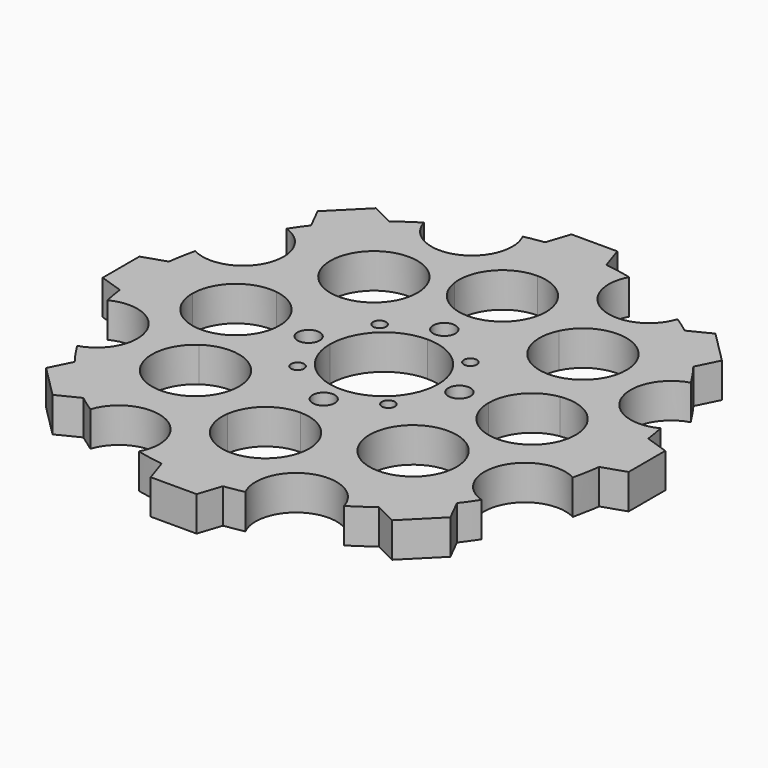
from build123d import *

# Parameters (mm, degrees)
F1_DEPTH = 7.1997824
F3_DEPTH = 7.1882
F4_R     = 2.2899148763
F4_R_2   = 1.3410215673
F5_DEPTH = 7.2007824


with BuildPart() as f1:
    # F0 (on Top) → F1 (new body)
    with BuildSketch(Plane.XY):
        with BuildLine():
            ThreePointArc((26.8068429755, 14.7738658062), (28.2009288002, 11.898804813), (29.2876989999, 8.8940782807))
            ThreePointArc((29.2876989999, 8.8940782807), (36.4809465454, 6.8089666954), (39.5999965796, 0))
            Line((39.5999965796, 0), (49.9353191489, 0))
            ThreePointArc((49.9353191489, 0), (35.3096027909, 35.3096027909), (0, 49.9353191489))
            Line((0, 49.9353191489), (0, 39.5999965796))
            ThreePointArc((0, 39.5999965796), (6.3580213337, 36.9664179133), (8.9916, 30.6083965796))
            ThreePointArc((8.9916, 30.6083965796), (8.9671864269, 29.9462499601), (8.8940782807, 29.2876989999))
            ThreePointArc((8.8940782807, 29.2876989999), (11.8990458515, 28.2008270978), (14.7743240507, 26.8065904213))
            ThreePointArc((14.7743240507, 26.8065904213), (24.8795683557, 31.6053629769), (31.8385178476, 22.8465272968))
            ThreePointArc((31.8385178476, 22.8465272968), (30.4776102585, 18.0903309289), (26.8068429755, 14.7738658062))
        make_face()
        with BuildLine():
            ThreePointArc((39.5999965796, 0), (36.4809465454, -6.8089666954), (29.2876989999, -8.8940782807))
            ThreePointArc((29.2876989999, -8.8940782807), (28.5235578365, -11.1031792529), (27.5930614992, -13.247524232))
            ThreePointArc((27.5930614992, -13.247524232), (30.5092399161, -16.4816061164), (31.5637453542, -20.7066978876))
            ThreePointArc((31.5637453542, -20.7066978876), (25.5648331452, -29.185653622), (15.5726669375, -26.3508251413))
            ThreePointArc((15.5726669375, -26.3508251413), (12.3211895696, -28.0189619502), (8.8940782807, -29.2876989999))
            ThreePointArc((8.8940782807, -29.2876989999), (8.9671864269, -29.9462499601), (8.9916, -30.6083965796))
            ThreePointArc((8.9916, -30.6083965796), (6.3580213337, -36.9664179133), (0, -39.5999965796))
            Line((0, -39.5999965796), (0, -49.9353191489))
            ThreePointArc((0, -49.9353191489), (35.3096027909, -35.3096027909), (49.9353191489, 0))
            Line((49.9353191489, 0), (39.5999965796, 0))
        make_face()
        with BuildLine():
            Line((0, 39.5999965796), (0, 49.9353191489))
            ThreePointArc((0, 49.9353191489), (-35.3096027909, 35.3096027909), (-49.9353191489, 0))
            Line((-49.9353191489, 0), (-39.5999965796, 0))
            ThreePointArc((-39.5999965796, 0), (-36.4809465454, 6.8089666954), (-29.2876989999, 8.8940782807))
            ThreePointArc((-29.2876989999, 8.8940782807), (-27.9315848801, 12.5180073198), (-26.129104309, 15.9418897619))
            ThreePointArc((-26.129104309, 15.9418897619), (-26.3530926392, 29.5579809434), (-12.8517801152, 27.7795912325))
            ThreePointArc((-12.8517801152, 27.7795912325), (-10.8990452152, 28.6021809408), (-8.8940782807, 29.2876989999))
            ThreePointArc((-8.8940782807, 29.2876989999), (-6.8089666954, 36.4809465454), (0, 39.5999965796))
        make_face()
        with BuildLine():
            ThreePointArc((-49.9353191489, 0), (-35.3096027909, -35.3096027909), (0, -49.9353191489))
            Line((0, -49.9353191489), (0, -39.5999965796))
            ThreePointArc((0, -39.5999965796), (-6.8089666954, -36.4809465454), (-8.8940782807, -29.2876989999))
            ThreePointArc((-8.8940782807, -29.2876989999), (-12.2609135884, -28.0453906935), (-15.4592019928, -26.4175512665))
            ThreePointArc((-15.4592019928, -26.4175512665), (-29.0076188208, -26.8096199443), (-27.5513837069, -13.3339865386))
            ThreePointArc((-27.5513837069, -13.3339865386), (-28.5061138543, -11.1478883248), (-29.2876989999, -8.8940782807))
            ThreePointArc((-29.2876989999, -8.8940782807), (-36.4809465454, -6.8089666954), (-39.5999965796, 0))
            Line((-39.5999965796, 0), (-49.9353191489, 0))
        make_face()
        with BuildLine():
            ThreePointArc((21.6167965796, 0), (23.7994298842, 5.8725499658), (29.2876989999, 8.8940782807))
            ThreePointArc((29.2876989999, 8.8940782807), (28.2009288002, 11.898804813), (26.8068429755, 14.7738658062))
            ThreePointArc((26.8068429755, 14.7738658062), (16.4888421709, 16.4885603065), (14.7743240507, 26.8065904213))
            ThreePointArc((14.7743240507, 26.8065904213), (11.8990458515, 28.2008270978), (8.8940782807, 29.2876989999))
            ThreePointArc((8.8940782807, 29.2876989999), (5.8725499658, 23.7994298842), (0, 21.6167965796))
            Line((0, 21.6167965796), (0, 11.176))
            ThreePointArc((0, 11.176), (7.9026253865, 7.9026253865), (11.176, 0))
            Line((11.176, 0), (21.6167965796, 0))
        make_face()
        with BuildLine():
            ThreePointArc((-11.176, 0), (-7.9026253865, 7.9026253865), (0, 11.176))
            Line((0, 11.176), (0, 21.6167965796))
            ThreePointArc((0, 21.6167965796), (-5.8725499658, 23.7994298842), (-8.8940782807, 29.2876989999))
            ThreePointArc((-8.8940782807, 29.2876989999), (-10.8990452152, 28.6021809408), (-12.8517801152, 27.7795912325))
            ThreePointArc((-12.8517801152, 27.7795912325), (-11.754129984, 25.4208187235), (-11.3777429362, 22.8465272968))
            ThreePointArc((-11.3777429362, 22.8465272968), (-16.557558564, 14.7028689997), (-26.129104309, 15.9418897619))
            ThreePointArc((-26.129104309, 15.9418897619), (-27.9315848801, 12.5180073198), (-29.2876989999, 8.8940782807))
            ThreePointArc((-29.2876989999, 8.8940782807), (-23.7994298842, 5.8725499658), (-21.6167965796, 0))
            Line((-21.6167965796, 0), (-11.176, 0))
        make_face()
        with BuildLine():
            Line((0, -21.6167965796), (0, -11.176))
            ThreePointArc((0, -11.176), (-7.9026253865, -7.9026253865), (-11.176, 0))
            Line((-11.176, 0), (-21.6167965796, 0))
            ThreePointArc((-21.6167965796, 0), (-23.7994298842, -5.8725499658), (-29.2876989999, -8.8940782807))
            ThreePointArc((-29.2876989999, -8.8940782807), (-28.5061138543, -11.1478883248), (-27.5513837069, -13.3339865386))
            ThreePointArc((-27.5513837069, -13.3339865386), (-18.2468968491, -12.7339638686), (-13.4127459254, -20.7066978876))
            ThreePointArc((-13.4127459254, -20.7066978876), (-13.9398073454, -23.7399234295), (-15.4592019928, -26.4175512665))
            ThreePointArc((-15.4592019928, -26.4175512665), (-12.2609135884, -28.0453906935), (-8.8940782807, -29.2876989999))
            ThreePointArc((-8.8940782807, -29.2876989999), (-5.8725499658, -23.7994298842), (0, -21.6167965796))
        make_face()
        with BuildLine():
            ThreePointArc((27.5930614992, -13.247524232), (28.5235578365, -11.1031792529), (29.2876989999, -8.8940782807))
            ThreePointArc((29.2876989999, -8.8940782807), (23.7994298842, -5.8725499658), (21.6167965796, 0))
            Line((21.6167965796, 0), (11.176, 0))
            ThreePointArc((11.176, 0), (7.9026253865, -7.9026253865), (0, -11.176))
            Line((0, -11.176), (0, -21.6167965796))
            ThreePointArc((0, -21.6167965796), (5.8725499658, -23.7994298842), (8.8940782807, -29.2876989999))
            ThreePointArc((8.8940782807, -29.2876989999), (12.3211895696, -28.0189619502), (15.5726669375, -26.3508251413))
            ThreePointArc((15.5726669375, -26.3508251413), (15.9462264862, -14.628370016), (27.5930614992, -13.247524232))
        make_face()
    extrude(amount=F1_DEPTH)

    # F2 (on face) → F3 (join)
    with BuildSketch(Plane.XY.offset(7.1997824)):
        Polygon((-6.3371514202, 49.5315718546), (0, 49.9353191489), (6.3371514202, 49.5315718546), (4.7355440691, 54.3524902207), (-4.7355440691, 54.3524902207), align=None)
        with BuildLine():
            Line((35.0844790855, 41.7815497333), (30.5430675986, 39.5051530838))
            ThreePointArc((30.5430675986, 39.5051530838), (35.3096027909, 35.3096027909), (39.5051530838, 30.5430675986))
            Line((39.5051530838, 30.5430675986), (41.7815497333, 35.0844790855))
            Line((41.7815497333, 35.0844790855), (35.0844790855, 41.7815497333))
        make_face()
        with BuildLine():
            Line((54.3524902207, 4.7355440691), (49.5315718546, 6.3371514202))
            ThreePointArc((49.5315718546, 6.3371514202), (49.8342801042, 3.175), (49.9353191489, 0))
            ThreePointArc((49.9353191489, 0), (49.8342801042, -3.175), (49.5315718546, -6.3371514202))
            Line((49.5315718546, -6.3371514202), (54.3524902207, -4.7355440691))
            Line((54.3524902207, -4.7355440691), (54.3524902207, 4.7355440691))
        make_face()
        with BuildLine():
            Line((41.7815497333, -35.0844790855), (39.5051530838, -30.5430675986))
            ThreePointArc((39.5051530838, -30.5430675986), (35.3096027909, -35.3096027909), (30.5430675986, -39.5051530838))
            Line((30.5430675986, -39.5051530838), (35.0844790855, -41.7815497333))
            Line((35.0844790855, -41.7815497333), (41.7815497333, -35.0844790855))
        make_face()
        with BuildLine():
            ThreePointArc((6.3371514202, -49.5315718546), (0, -49.9353191489), (-6.3371514202, -49.5315718546))
            Line((-6.3371514202, -49.5315718546), (-4.7355440691, -54.3524902207))
            Line((-4.7355440691, -54.3524902207), (4.7355440691, -54.3524902207))
            Line((4.7355440691, -54.3524902207), (6.3371514202, -49.5315718546))
        make_face()
        with BuildLine():
            ThreePointArc((-30.5430675986, -39.5051530838), (-35.3096027909, -35.3096027909), (-39.5051530838, -30.5430675986))
            Line((-39.5051530838, -30.5430675986), (-41.7815497333, -35.0844790855))
            Line((-41.7815497333, -35.0844790855), (-35.0844790855, -41.7815497333))
            Line((-35.0844790855, -41.7815497333), (-30.5430675986, -39.5051530838))
        make_face()
        with BuildLine():
            ThreePointArc((-49.5315718546, -6.3371514202), (-49.9353191489, 0), (-49.5315718546, 6.3371514202))
            Line((-49.5315718546, 6.3371514202), (-54.3524902207, 4.7355440691))
            Line((-54.3524902207, 4.7355440691), (-54.3524902207, -4.7355440691))
            Line((-54.3524902207, -4.7355440691), (-49.5315718546, -6.3371514202))
        make_face()
        with BuildLine():
            ThreePointArc((-39.5051530838, 30.5430675986), (-35.3096027909, 35.3096027909), (-30.5430675986, 39.5051530838))
            Line((-30.5430675986, 39.5051530838), (-35.0844790855, 41.7815497333))
            Line((-35.0844790855, 41.7815497333), (-41.7815497333, 35.0844790855))
            Line((-41.7815497333, 35.0844790855), (-39.5051530838, 30.5430675986))
        make_face()
    extrude(amount=-F3_DEPTH)

    # F4 (on face) → F5 (cut, through all)
    with BuildSketch(Plane.XY.offset(7.1997824)):
        with BuildLine():
            ThreePointArc((-25.9053429123, 42.6901546858), (-14.7889234536, 37.2776274416), (-10.4064317562, 48.8389422143))
            ThreePointArc((-10.4064317562, 48.8389422143), (-18.4143460897, 46.4160312456), (-25.9053429123, 42.6901546858))
        make_face()
        with BuildLine():
            ThreePointArc((-48.5043415105, 11.868654226), (-36.816611211, 15.90191509), (-41.8928056885, 27.1758887629))
            ThreePointArc((-41.8928056885, 27.1758887629), (-45.8419994407, 19.8001814584), (-48.5043415105, 11.868654226))
        make_face()
        with BuildLine():
            ThreePointArc((-11.868654226, -48.5043415105), (-15.90191509, -36.816611211), (-27.1758887629, -41.8928056885))
            ThreePointArc((-27.1758887629, -41.8928056885), (-19.8001814584, -45.8419994407), (-11.868654226, -48.5043415105))
        make_face()
        with BuildLine():
            ThreePointArc((-42.6901546858, -25.9053429123), (-37.2776274416, -14.7889234536), (-48.8389422143, -10.4064317562))
            ThreePointArc((-48.8389422143, -10.4064317562), (-46.4160312456, -18.4143460897), (-42.6901546858, -25.9053429123))
        make_face()
        with BuildLine():
            ThreePointArc((10.4064317562, -48.8389422143), (18.4143460897, -46.4160312456), (25.9053429123, -42.6901546858))
            ThreePointArc((25.9053429123, -42.6901546858), (14.7889234536, -37.2776274416), (10.4064317562, -48.8389422143))
        make_face()
        with BuildLine():
            ThreePointArc((41.8928056885, -27.1758887629), (45.8419994407, -19.8001814584), (48.5043415105, -11.868654226))
            ThreePointArc((48.5043415105, -11.868654226), (36.816611211, -15.90191509), (41.8928056885, -27.1758887629))
        make_face()
        with BuildLine():
            ThreePointArc((48.8389422143, 10.4064317562), (46.4160312456, 18.4143460897), (42.6901546858, 25.9053429123))
            ThreePointArc((42.6901546858, 25.9053429123), (37.2776274416, 14.7889234536), (48.8389422143, 10.4064317562))
        make_face()
        with BuildLine():
            ThreePointArc((27.1758887629, 41.8928056885), (19.8001814584, 45.8419994407), (11.868654226, 48.5043415105))
            ThreePointArc((11.868654226, 48.5043415105), (15.90191509, 36.816611211), (27.1758887629, 41.8928056885))
        make_face()
        with Locations((-15.5825084075, 0)):
            Circle(F4_R)
        with Locations((-9.2706065625, 10.4540865868)):
            Circle(F4_R_2)
        with Locations((0, 15.5825084075)):
            Circle(F4_R)
        with Locations((10.4540865868, 9.2706065625)):
            Circle(F4_R_2)
        with Locations((15.5825084075, 0)):
            Circle(F4_R)
        with Locations((9.2706065625, -10.4540865868)):
            Circle(F4_R_2)
        with Locations((0, -15.5825084075)):
            Circle(F4_R)
        with Locations((-10.4540865868, -9.2706065625)):
            Circle(F4_R_2)
    extrude(amount=-F5_DEPTH, mode=Mode.SUBTRACT)


solid = f1.part
